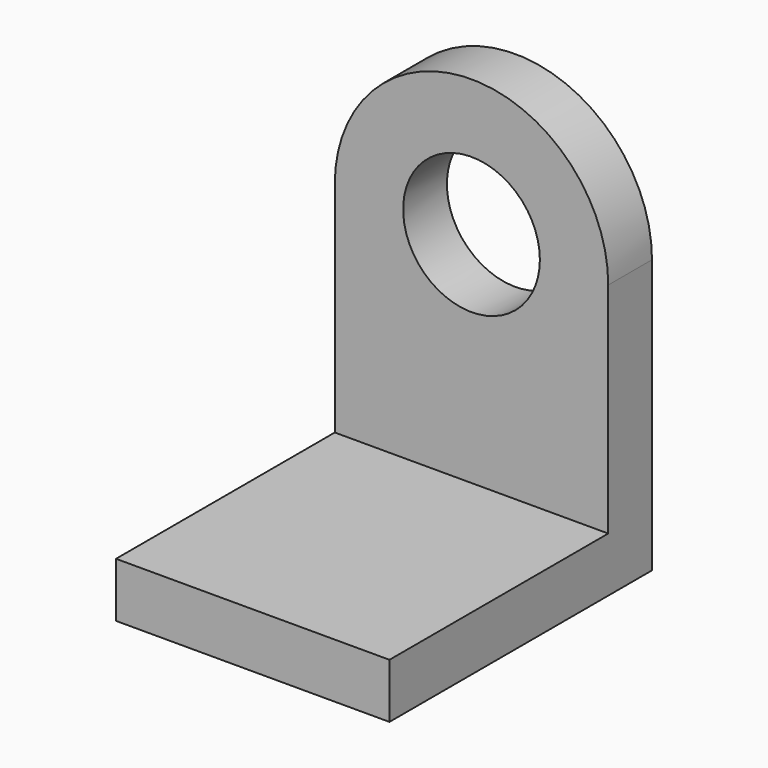
from build123d import *

# Parameters (mm, degrees)
F0_W     = 200
F0_H     = 40
F0_R     = 50
F1_DEPTH = 20
F2_W     = 200
F2_H     = 40
F3_DEPTH = 200


with BuildPart() as f1:
    # F0 (on Front) → F1 (new body, symmetric)
    with BuildSketch(Plane.XZ):
        with Locations((0, 20)):
            Rectangle(F0_W, F0_H)
        with BuildLine():
            Line((-100, 200), (-100, 40))
            Line((-100, 40), (100, 40))
            Line((100, 40), (100, 200))
            ThreePointArc((100, 200), (0, 300), (-100, 200))
        make_face()
        with Locations((0, 200)):
            Circle(F0_R, mode=Mode.SUBTRACT)
    extrude(amount=F1_DEPTH, both=True)

    # F2 (on face) → F3 (join)
    with BuildSketch(Plane.XZ.offset(20)):
        with Locations((0, 20)):
            Rectangle(F2_W, F2_H)
    extrude(amount=F3_DEPTH)


solid = f1.part
